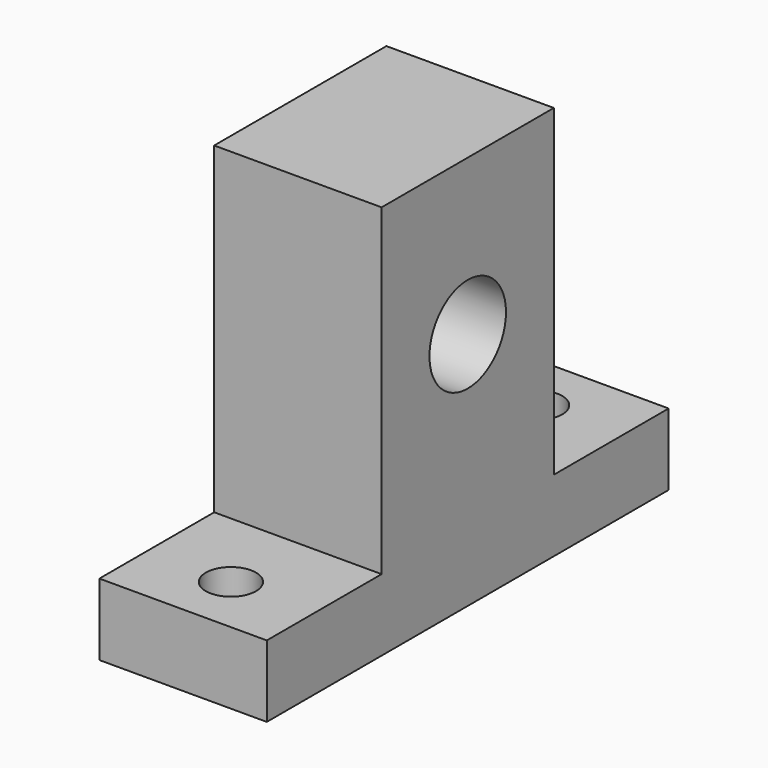
from build123d import *

# Parameters (mm, degrees)
F0_R     = 4
F1_DEPTH = 7
F4_D     = 4.2


with BuildPart() as f1:
    # F0 (on Right) → F1 (new body, symmetric)
    with BuildSketch(Plane.YZ):
        Polygon((-21, 0), (0, 0), (21, 0), (21, 6), (9, 6), (9, 33), (0, 33), (-9, 33), (-9, 6), (-21, 6), align=None)
        with Locations((0, 20)):
            Circle(F0_R, mode=Mode.SUBTRACT)
    extrude(amount=F1_DEPTH, both=True)

    # F4 (through all)
    with Locations(Plane.XY.offset(6)):
        with Locations((0, -16), (0, 16)):
            Hole(F4_D / 2)


solid = f1.part
